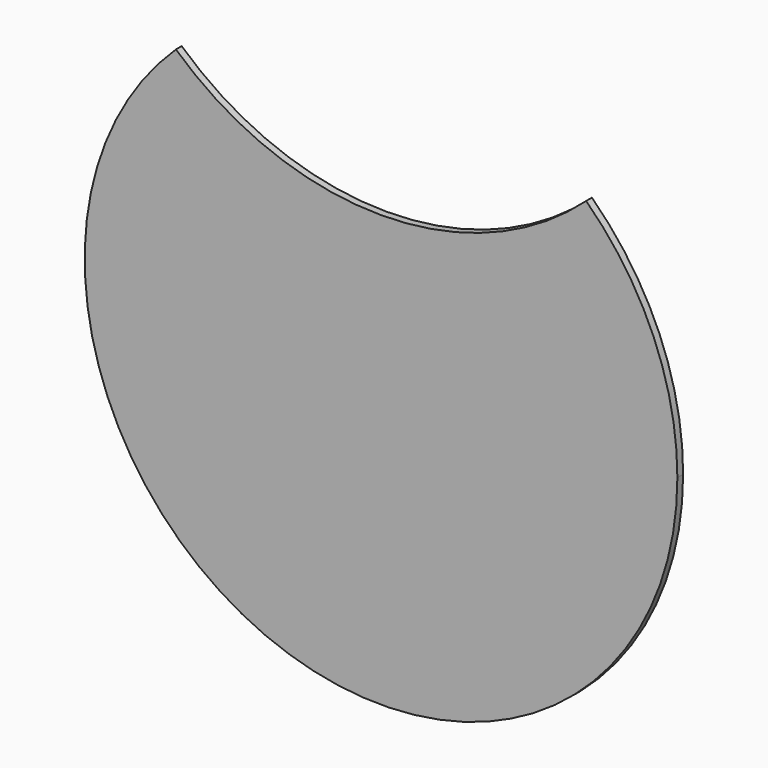
from build123d import *

# Parameters (mm, degrees)
F1_DEPTH = 6


with BuildPart() as f1:
    # F0 (on Front) → F1 (new body)
    with BuildSketch(Plane.XZ):
        with BuildLine():
            ThreePointArc((-171.319207, 178.622449), (-97.094661, -227.659564), (247.5, 0))
            ThreePointArc((247.5, 0), (227.659564, 97.094661), (171.319207, 178.622449))
            ThreePointArc((171.319207, 178.622449), (0, 112.5), (-171.319207, 178.622449))
        make_face()
    extrude(amount=F1_DEPTH)


solid = f1.part
